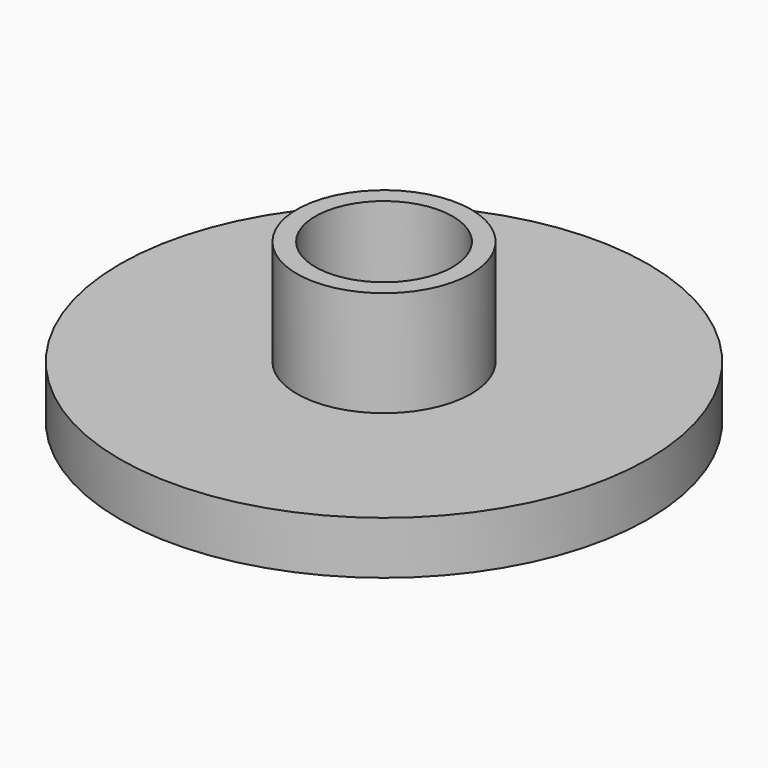
from build123d import *

# Parameters (mm, degrees)
F0_R     = 12.7
F1_DEPTH = 2.54
F2_R     = 4.191
F3_DEPTH = 7.62
F4_R     = 3.302
F5_DEPTH = 7.621


with BuildPart() as f1:
    # F0 (on Top) → F1 (new body)
    with BuildSketch(Plane.XY):
        Circle(F0_R)
    extrude(amount=F1_DEPTH)

    # F2 (on Top) → F3 (join)
    with BuildSketch(Plane.XY):
        Circle(F2_R)
    extrude(amount=F3_DEPTH)

    # F4 (on Top) → F5 (cut, through all)
    with BuildSketch(Plane.XY):
        Circle(F4_R)
    extrude(amount=F5_DEPTH, mode=Mode.SUBTRACT)


solid = f1.part
